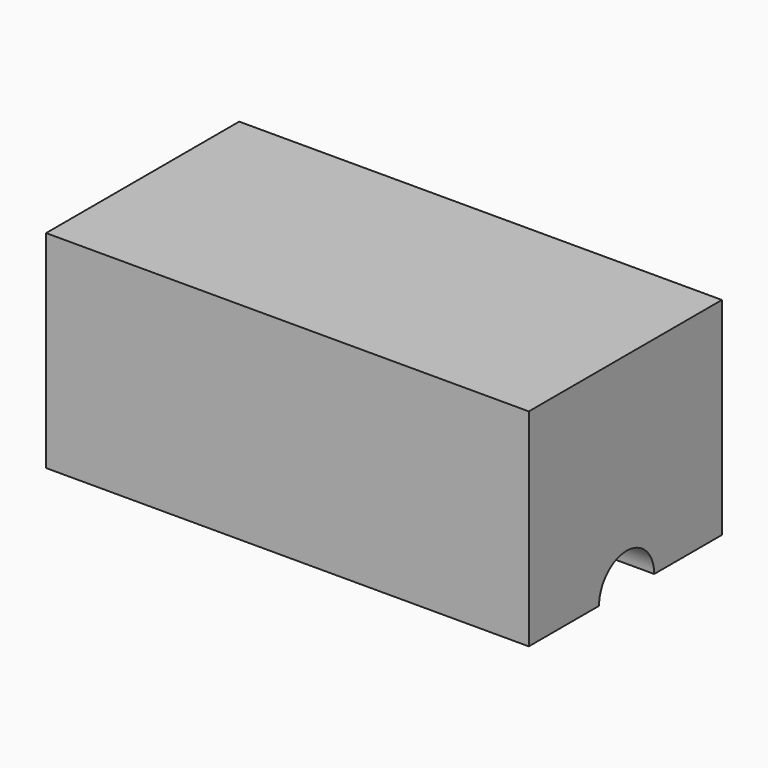
from build123d import *

# Parameters (mm, degrees)
F0_W     = 35.56
F0_H     = 15.24
F1_DEPTH = 17.78
F2_R     = 2.54
F3_DEPTH = 25.4
F4_R     = 2.54
F5_DEPTH = 25.4


with BuildPart() as f1:
    # F0 (on Front) → F1 (new body)
    with BuildSketch(Plane.XZ):
        with Locations((-1.695781, 7.62)):
            Rectangle(F0_W, F0_H)
    extrude(amount=F1_DEPTH)

    # F2 (on Right) → F3 (cut)
    with BuildSketch(Plane.YZ):
        with Locations((-8.775705, 0)):
            Circle(F2_R)
    extrude(amount=F3_DEPTH, mode=Mode.SUBTRACT)

    # F4 (on Right) → F5 (cut)
    with BuildSketch(Plane.YZ):
        with Locations((-8.858354, 0)):
            Circle(F4_R)
    extrude(amount=-F5_DEPTH, mode=Mode.SUBTRACT)


solid = f1.part
